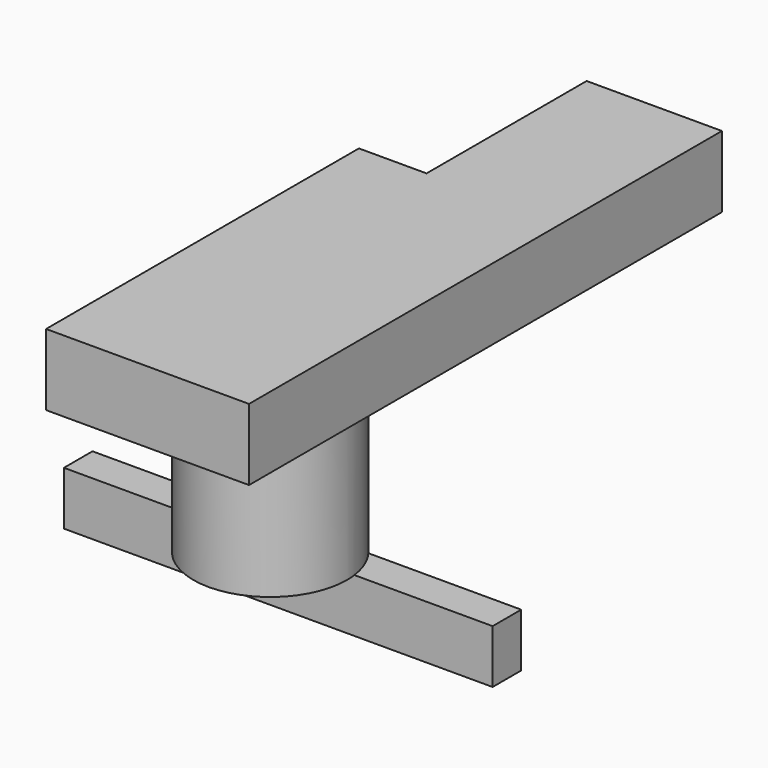
from build123d import *

# Parameters (mm, degrees)
F0_W     = 152.4
F0_H     = 19.05
F1_DEPTH = 12.7
F2_R     = 27.294321
F3_DEPTH = 64.726328
F4_W     = 24.047904
F4_H     = 139.005154
F5_DEPTH = 25.4


with BuildPart() as f1:
    # F0 (on Front) → F1 (new body)
    with BuildSketch(Plane.XZ):
        Rectangle(F0_W, F0_H)
    extrude(amount=F1_DEPTH)

    # F2 (on face) → F3 (join)
    with BuildSketch(Plane.XY.offset(9.525)):
        with Locations((0, -16.311869)):
            Circle(F2_R)
    extrude(amount=F3_DEPTH)

    # F4 (on face) → F5 (join)
    with BuildSketch(Plane.XY.offset(74.251328)):
        with Locations((12.023952, -16.311869)):
            Rectangle(F4_W, F4_H)
        Polygon((24.047904, 53.190708), (24.047904, -85.814446), (48.095807, -85.814446), (48.095807, 124.323294), (0, 124.323294), (0, 53.190708), align=None)
        with Locations((-12.023952, -16.311869)):
            Rectangle(F4_W, F4_H)
    extrude(amount=F5_DEPTH)


solid = f1.part
